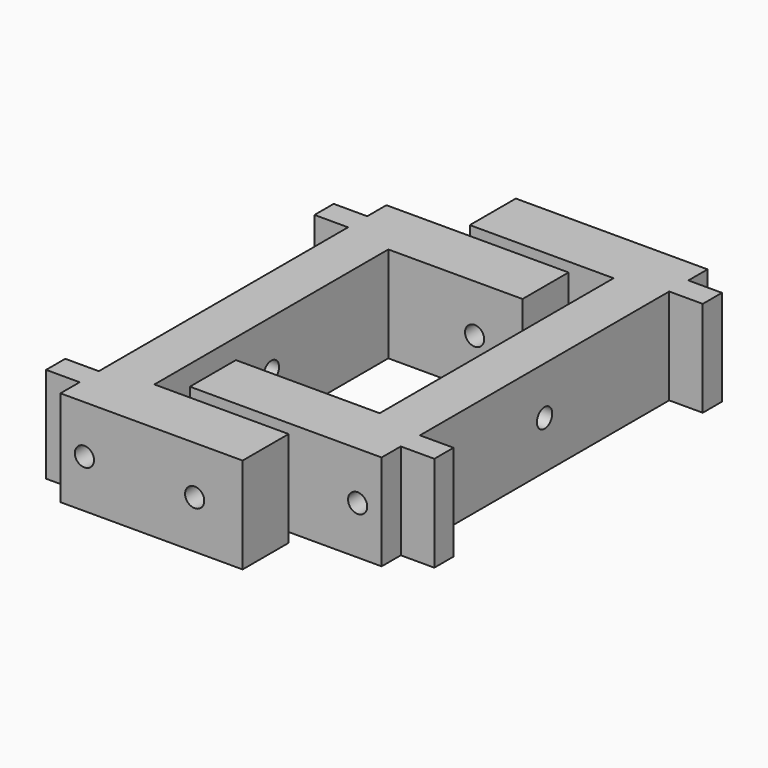
from build123d import *

# Parameters (mm, degrees)
PAD_DEPTH       = 20
SKETCH004_R     = 2
POCKET002_DEPTH = 38.001
SKETCH005_R     = 2
POCKET003_DEPTH = 85.001
PAD001_DEPTH    = 20
SKETCH007_R     = 2
POCKET004_DEPTH = 40.001
SKETCH008_R     = 2
POCKET005_DEPTH = 85.001


with BuildPart() as soporte_agujero_superior_lateral:
    # Sketch → Pad (new body)
    with BuildSketch(Plane.XY):
        Polygon((-10, -42.5), (28, -42.5), (28, -30.5), (0, -30.5), (0, 30.5), (28, 30.5), (28, 42.5), (-10, 42.5), (-10, 37.5), (-17, 37.5), (-17, 32.5), (-10, 32.5), (-10, -32.5), (-17, -32.5), (-17, -37.5), (-10, -37.5), align=None)
    extrude(amount=PAD_DEPTH)

    # Sketch004 → Pocket002 (cut, through all)
    with BuildSketch(Plane(origin=(-10, 0, 0), x_dir=(0, -1, 0), z_dir=(-1, 0, 0))):
        with Locations((0, 10)):
            Circle(SKETCH004_R)
    extrude(amount=-POCKET002_DEPTH, mode=Mode.SUBTRACT)

    # Sketch005 → Pocket003 (cut, through all)
    with BuildSketch(Plane.XZ.offset(42.5)):
        with Locations((-5, 10)):
            Circle(SKETCH005_R)
        with Locations((18, 10)):
            Circle(SKETCH005_R)
    extrude(amount=-POCKET003_DEPTH, mode=Mode.SUBTRACT)


with BuildPart() as soporte_agujero_superior_lateral001:
    # Sketch006 → Pad001 (new body)
    with BuildSketch(Plane(origin=(35, 15, 0), x_dir=(-1, 0, 0), z_dir=(0, 0, 1))):
        Polygon((-10, -42.5), (30, -42.5), (30, -30.5), (0, -30.5), (0, 30.5), (30, 30.5), (30, 42.5), (-10, 42.5), (-10, 37.5), (-17, 37.5), (-17, 32.5), (-10, 32.5), (-10, -32.5), (-17, -32.5), (-17, -37.5), (-10, -37.5), align=None)
    extrude(amount=PAD001_DEPTH)

    # Sketch007 → Pocket004 (cut, through all)
    with BuildSketch(Plane(origin=(45, 15, 0), x_dir=(0, 1, 0), z_dir=(1, 0, 0))):
        with Locations((0, 10)):
            Circle(SKETCH007_R)
    extrude(amount=-POCKET004_DEPTH, mode=Mode.SUBTRACT)

    # Sketch008 → Pocket005 (cut, through all)
    with BuildSketch(Plane(origin=(35, 57.5, 0), x_dir=(-1, 0, 0), z_dir=(0, 1, 0))):
        with Locations((-5, 10)):
            Circle(SKETCH008_R)
        with Locations((20, 10)):
            Circle(SKETCH008_R)
    extrude(amount=-POCKET005_DEPTH, mode=Mode.SUBTRACT)


solid = Compound([soporte_agujero_superior_lateral.part, soporte_agujero_superior_lateral001.part])
